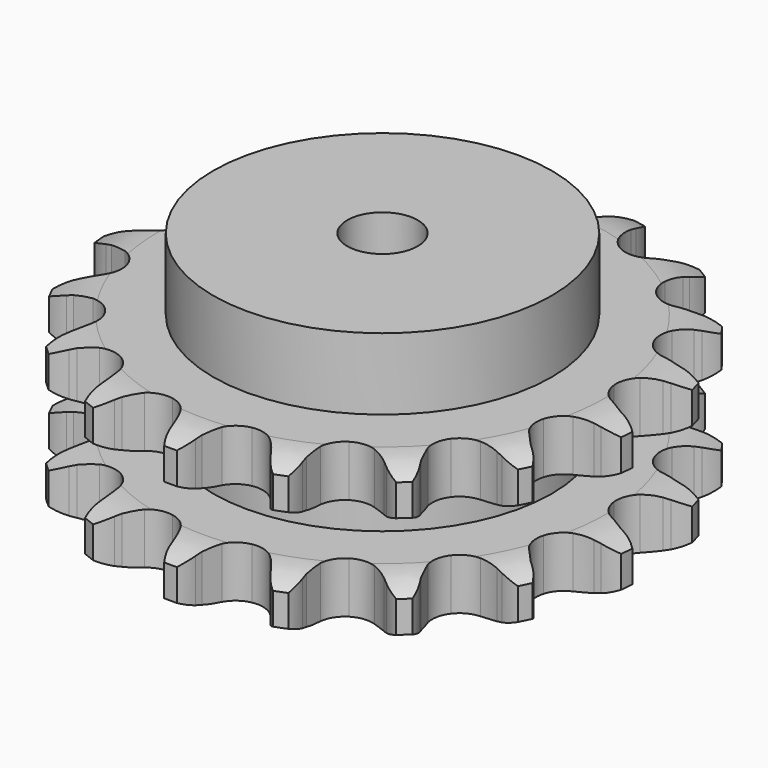
from build123d import *

# Parameters (mm, degrees)
PAD_DEPTH         = 54.6
SKETCH001_R       = 60
PAD001_DEPTH      = 80
SKETCH002_R       = 12.5
POCKET_DEPTH      = 0.001
POCKET_DEPTH_BACK = 80.001


with BuildPart() as part:
    # Sprocket → Pad (new body)
    with BuildSketch(Plane.XY):
        with BuildLine():
            ThreePointArc((-17.737635, 94.887966), (-14.206325, 91.840416), (-11.714917, 87.896992))
            Line((-11.714917, 87.896992), (-10.811214, 85.850299))
            ThreePointArc((-10.811214, 85.850299), (-9.33963, 83.023412), (-7.51836, 80.408107))
            ThreePointArc((-7.51836, 80.408107), (-4.173112, 77.73735), (0, 76.78406))
            ThreePointArc((0, 76.78406), (4.173112, 77.73735), (7.51836, 80.408107))
            ThreePointArc((7.51836, 80.408107), (9.33963, 83.023412), (10.811214, 85.850299))
            Line((10.811214, 85.850299), (11.714917, 87.896992))
            ThreePointArc((11.714917, 87.896992), (14.206325, 91.840416), (17.737635, 94.887966))
            ThreePointArc((17.737635, 94.887966), (19.929581, 90.770554), (20.828221, 86.19342))
            Line((20.828221, 86.19342), (20.931548, 83.958481))
            ThreePointArc((20.931548, 83.958481), (21.28257, 80.79089), (22.036097, 77.694272))
            ThreePointArc((22.036097, 77.694272), (24.190659, 73.995422), (27.737602, 71.599003))
            ThreePointArc((27.737602, 71.599003), (31.973281, 70.980418), (36.05742, 72.262382))
            Line((36.05742, 72.262382), (41.093862, 76.147559))
            ThreePointArc((41.093862, 76.147559), (41.867064, 76.956386), (42.675891, 77.729588))
            ThreePointArc((42.675891, 77.729588), (46.423588, 80.506721), (50.817339, 82.07282))
            ThreePointArc((50.817339, 82.07282), (51.373887, 77.441626), (50.558392, 72.84895))
            Line((50.558392, 72.84895), (49.847389, 70.727604))
            ThreePointArc((49.847389, 70.727604), (49.030441, 67.64711), (48.614457, 64.487394))
            ThreePointArc((48.614457, 64.487394), (49.287347, 60.260002), (51.729086, 56.744105))
            ThreePointArc((51.729086, 56.744105), (55.455281, 54.637188), (59.726726, 54.357222))
            Line((59.726726, 54.357222), (65.826556, 56.160669))
            ThreePointArc((65.826556, 56.160669), (66.839727, 56.635565), (67.873249, 57.064372))
            ThreePointArc((67.873249, 57.064372), (72.371089, 58.300147), (77.033879, 58.173285))
            ThreePointArc((77.033879, 58.173285), (75.879865, 53.653777), (73.460372, 49.665825))
            Line((73.460372, 49.665825), (72.031063, 47.944573))
            ThreePointArc((72.031063, 47.944573), (70.15648, 45.367213), (68.627165, 42.571137))
            ThreePointArc((68.627165, 42.571137), (67.727506, 38.386135), (68.734271, 34.2256))
            ThreePointArc((68.734271, 34.2256), (71.447738, 30.914902), (75.329607, 29.110818))
            Line((75.329607, 29.110818), (81.669009, 28.588969))
            ThreePointArc((81.669009, 28.588969), (82.785315, 28.665797), (83.903948, 28.692297))
            ThreePointArc((83.903948, 28.692297), (88.544473, 28.219816), (92.846568, 26.417126))
            ThreePointArc((92.846568, 26.417126), (90.137847, 22.619688), (86.441122, 19.775055))
            Line((86.441122, 19.775055), (84.486544, 18.686362))
            ThreePointArc((84.486544, 18.686362), (81.807497, 16.960223), (79.371394, 14.905412))
            ThreePointArc((79.371394, 14.905412), (77.02069, 11.328008), (76.456512, 7.084739))
            ThreePointArc((76.456512, 7.084739), (77.790782, 3.017388), (80.758807, -0.067163))
            Line((80.758807, -0.067163), (86.48161, -2.843829))
            ThreePointArc((86.48161, -2.843829), (87.550288, -3.175445), (88.602955, -3.554832))
            ThreePointArc((88.602955, -3.554832), (92.759435, -5.671759), (96.119813, -8.906812))
            ThreePointArc((96.119813, -8.906812), (92.222213, -11.469315), (87.74752, -12.786446))
            Line((87.74752, -12.786446), (85.531648, -13.095547))
            ThreePointArc((85.531648, -13.095547), (82.409958, -13.73734), (79.396076, -14.773372))
            ThreePointArc((79.396076, -14.773372), (75.911803, -17.26003), (73.852877, -21.012955))
            ThreePointArc((73.852877, -21.012955), (73.62775, -25.287642), (75.281083, -29.236074))
            Line((75.281083, -29.236074), (79.61439, -33.892553))
            ThreePointArc((79.61439, -33.892553), (80.491109, -34.587827), (81.335641, -35.321862))
            ThreePointArc((81.335641, -35.321862), (84.446722, -38.797331), (86.411544, -43.027836))
            ThreePointArc((86.411544, -43.027836), (81.851458, -44.009324), (77.203129, -43.621066))
            Line((77.203129, -43.621066), (75.02523, -43.108829))
            ThreePointArc((75.02523, -43.108829), (71.882498, -42.579598), (68.697879, -42.45693))
            ThreePointArc((68.697879, -42.45693), (64.550606, -43.517004), (61.275002, -46.272734))
            ThreePointArc((61.275002, -46.272734), (59.520883, -50.177435), (59.636231, -54.456491))
            Line((59.636231, -54.456491), (61.994805, -60.363899))
            ThreePointArc((61.994805, -60.363899), (62.56116, -61.32893), (63.083499, -62.318478))
            ThreePointArc((63.083499, -62.318478), (64.729011, -66.683108), (65.032918, -71.337713))
            ThreePointArc((65.032918, -71.337713), (60.42621, -70.605629), (56.232027, -68.564419))
            Line((56.232027, -68.564419), (54.386238, -67.300024))
            ThreePointArc((54.386238, -67.300024), (51.646908, -65.671246), (48.721652, -64.406444))
            ThreePointArc((48.721652, -64.406444), (44.471493, -63.896767), (40.421599, -65.283123))
            ThreePointArc((40.421599, -65.283123), (37.37539, -68.290487), (35.937176, -72.322257))
            Line((35.937176, -72.322257), (36.002479, -78.682766))
            ThreePointArc((36.002479, -78.682766), (36.181979, -79.787222), (36.31158, -80.898638))
            ThreePointArc((36.31158, -80.898638), (36.269288, -85.562962), (34.871236, -90.013036))
            ThreePointArc((34.871236, -90.013036), (30.840067, -87.666253), (27.666479, -84.247768))
            Line((27.666479, -84.247768), (26.402084, -82.401979))
            ThreePointArc((26.402084, -82.401979), (24.436117, -79.893629), (22.165296, -77.657512))
            ThreePointArc((22.165296, -77.657512), (18.386257, -75.646917), (14.109034, -75.476665))
            ThreePointArc((14.109034, -75.476665), (10.182144, -77.180531), (7.384606, -80.420501))
            Line((7.384606, -80.420501), (5.147818, -86.37509))
            ThreePointArc((5.147818, -86.37509), (4.916222, -87.469807), (4.635581, -88.552989))
            ThreePointArc((4.635581, -88.552989), (2.911197, -92.887064), (0, -96.5316))
            ThreePointArc((0, -96.5316), (-2.911197, -92.887064), (-4.635581, -88.552989))
            Line((-4.635581, -88.552989), (-5.147818, -86.37509))
            ThreePointArc((-5.147818, -86.37509), (-6.074907, -83.325934), (-7.384606, -80.420501))
            ThreePointArc((-7.384606, -80.420501), (-10.182144, -77.180531), (-14.109034, -75.476665))
            ThreePointArc((-14.109034, -75.476665), (-18.386257, -75.646917), (-22.165296, -77.657512))
            Line((-22.165296, -77.657512), (-26.402084, -82.401979))
            ThreePointArc((-26.402084, -82.401979), (-27.013498, -83.33911), (-27.666479, -84.247768))
            ThreePointArc((-27.666479, -84.247768), (-30.840067, -87.666253), (-34.871236, -90.013036))
            ThreePointArc((-34.871236, -90.013036), (-36.269288, -85.562962), (-36.31158, -80.898638))
            Line((-36.31158, -80.898638), (-36.002479, -78.682766))
            ThreePointArc((-36.002479, -78.682766), (-35.765481, -75.50461), (-35.937176, -72.322257))
            ThreePointArc((-35.937176, -72.322257), (-37.37539, -68.290487), (-40.421599, -65.283123))
            ThreePointArc((-40.421599, -65.283123), (-44.471493, -63.896767), (-48.721652, -64.406444))
            Line((-48.721652, -64.406444), (-54.386238, -67.300024))
            ThreePointArc((-54.386238, -67.300024), (-55.294896, -67.953005), (-56.232027, -68.564419))
            ThreePointArc((-56.232027, -68.564419), (-60.42621, -70.605629), (-65.032918, -71.337713))
            ThreePointArc((-65.032918, -71.337713), (-64.729011, -66.683108), (-63.083499, -62.318478))
            Line((-63.083499, -62.318478), (-61.994805, -60.363899))
            ThreePointArc((-61.994805, -60.363899), (-60.625729, -57.48597), (-59.636231, -54.456491))
            ThreePointArc((-59.636231, -54.456491), (-59.520883, -50.177435), (-61.275002, -46.272734))
            ThreePointArc((-61.275002, -46.272734), (-64.550606, -43.517004), (-68.697879, -42.45693))
            Line((-68.697879, -42.45693), (-75.02523, -43.108829))
            ThreePointArc((-75.02523, -43.108829), (-76.108412, -43.389469), (-77.203129, -43.621066))
            ThreePointArc((-77.203129, -43.621066), (-81.851458, -44.009324), (-86.411544, -43.027836))
            ThreePointArc((-86.411544, -43.027836), (-84.446722, -38.797331), (-81.335641, -35.321862))
            Line((-81.335641, -35.321862), (-79.61439, -33.892553))
            ThreePointArc((-79.61439, -33.892553), (-77.298136, -31.703531), (-75.281083, -29.236074))
            ThreePointArc((-75.281083, -29.236074), (-73.62775, -25.287642), (-73.852877, -21.012955))
            ThreePointArc((-73.852877, -21.012955), (-75.911803, -17.26003), (-79.396076, -14.773372))
            Line((-79.396076, -14.773372), (-85.531648, -13.095547))
            ThreePointArc((-85.531648, -13.095547), (-86.643064, -12.965946), (-87.74752, -12.786446))
            ThreePointArc((-87.74752, -12.786446), (-92.222213, -11.469315), (-96.119813, -8.906812))
            ThreePointArc((-96.119813, -8.906812), (-92.759435, -5.671759), (-88.602955, -3.554832))
            Line((-88.602955, -3.554832), (-86.48161, -2.843829))
            ThreePointArc((-86.48161, -2.843829), (-83.531002, -1.639355), (-80.758807, -0.067163))
            ThreePointArc((-80.758807, -0.067163), (-77.790782, 3.017388), (-76.456512, 7.084739))
            ThreePointArc((-76.456512, 7.084739), (-77.02069, 11.328008), (-79.371394, 14.905412))
            Line((-79.371394, 14.905412), (-84.486544, 18.686362))
            ThreePointArc((-84.486544, 18.686362), (-85.476091, 19.208701), (-86.441122, 19.775055))
            ThreePointArc((-86.441122, 19.775055), (-90.137847, 22.619688), (-92.846568, 26.417126))
            ThreePointArc((-92.846568, 26.417126), (-88.544473, 28.219816), (-83.903948, 28.692297))
            Line((-83.903948, 28.692297), (-81.669009, 28.588969))
            ThreePointArc((-81.669009, 28.588969), (-78.482543, 28.646225), (-75.329607, 29.110818))
            ThreePointArc((-75.329607, 29.110818), (-71.447738, 30.914902), (-68.734271, 34.2256))
            ThreePointArc((-68.734271, 34.2256), (-67.727506, 38.386135), (-68.627165, 42.571137))
            Line((-68.627165, 42.571137), (-72.031063, 47.944573))
            ThreePointArc((-72.031063, 47.944573), (-72.765098, 48.789106), (-73.460372, 49.665825))
            ThreePointArc((-73.460372, 49.665825), (-75.879865, 53.653777), (-77.033879, 58.173285))
            ThreePointArc((-77.033879, 58.173285), (-72.371089, 58.300147), (-67.873249, 57.064372))
            Line((-67.873249, 57.064372), (-65.826556, 56.160669))
            ThreePointArc((-65.826556, 56.160669), (-62.834581, 55.062974), (-59.726726, 54.357222))
            ThreePointArc((-59.726726, 54.357222), (-55.455281, 54.637188), (-51.729086, 56.744105))
            ThreePointArc((-51.729086, 56.744105), (-49.287347, 60.260002), (-48.614457, 64.487394))
            Line((-48.614457, 64.487394), (-49.847389, 70.727604))
            ThreePointArc((-49.847389, 70.727604), (-50.226776, 71.780271), (-50.558392, 72.84895))
            ThreePointArc((-50.558392, 72.84895), (-51.373887, 77.441626), (-50.817339, 82.07282))
            ThreePointArc((-50.817339, 82.07282), (-46.423588, 80.506721), (-42.675891, 77.729588))
            Line((-42.675891, 77.729588), (-41.093862, 76.147559))
            ThreePointArc((-41.093862, 76.147559), (-38.700462, 74.043163), (-36.05742, 72.262382))
            ThreePointArc((-36.05742, 72.262382), (-31.973281, 70.980418), (-27.737602, 71.599003))
            ThreePointArc((-27.737602, 71.599003), (-24.190659, 73.995422), (-22.036097, 77.694272))
            Line((-22.036097, 77.694272), (-20.931548, 83.958481))
            ThreePointArc((-20.931548, 83.958481), (-20.905049, 85.077114), (-20.828221, 86.19342))
            ThreePointArc((-20.828221, 86.19342), (-19.929581, 90.770554), (-17.737635, 94.887966))
        make_face()
    extrude(amount=PAD_DEPTH)

    # Sketch → Groove (revolve, cut)
    with BuildSketch(Plane.XZ):
        with BuildLine():
            ThreePointArc((79.398368, 0), (86.881683, 0.887302), (93.95, 3.5))
            Line((93.95, 3.5), (93.95, 14.7))
            ThreePointArc((93.95, 14.7), (86.881683, 17.312698), (79.398368, 18.2))
            Line((60, 18.2), (79.398368, 18.2))
            Line((60, 36.4), (60, 18.2))
            Line((79.398368, 36.4), (60, 36.4))
            ThreePointArc((79.398368, 36.4), (86.881683, 37.287302), (93.95, 39.9))
            Line((93.95, 39.9), (93.95, 51.1))
            ThreePointArc((93.95, 51.1), (86.881683, 53.712698), (79.398368, 54.6))
            Line((79.398368, 54.6), (103.95, 54.6))
            Line((103.95, 54.6), (103.95, 0))
            Line((79.398368, 0), (103.95, 0))
        make_face()
    revolve(axis=Axis((0, 0, 0), (0, 0, 1)), mode=Mode.SUBTRACT)

    # Sketch001 → Pad001 (join)
    with BuildSketch(Plane.XY):
        Circle(SKETCH001_R)
    extrude(amount=PAD001_DEPTH)

    # Sketch002 → Pocket (cut, two sides)
    with BuildSketch(Plane.XY) as pocket_sk:
        Circle(SKETCH002_R)
    extrude(amount=-POCKET_DEPTH, mode=Mode.SUBTRACT)
    extrude(pocket_sk.sketch, amount=POCKET_DEPTH_BACK, mode=Mode.SUBTRACT)


solid = part.part
